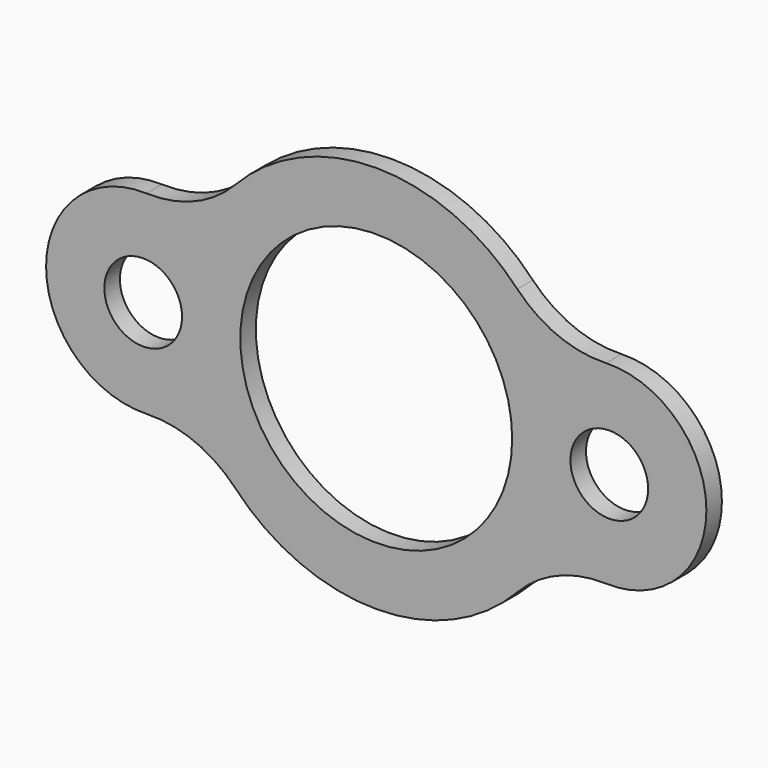
from build123d import *

# Parameters (mm, degrees)
F0_R     = 12.7
F0_R_2   = 44.45
F1_DEPTH = 6.35


with BuildPart() as f1:
    # F0 (on Front) → F1 (new body)
    with BuildSketch(Plane.XZ):
        with BuildLine():
            ThreePointArc((75.117614, 31.731545), (59.347524, 34.564632), (46.136719, 43.630874))
            ThreePointArc((46.136719, 43.630874), (0, 63.5), (-46.136719, 43.630874))
            ThreePointArc((-46.136719, 43.630874), (-59.347524, 34.564632), (-75.117614, 31.731545))
            ThreePointArc((-75.117614, 31.731545), (-107.95, 0), (-75.117614, -31.731545))
            ThreePointArc((-75.117614, -31.731545), (-59.347524, -34.564632), (-46.136719, -43.630874))
            ThreePointArc((-46.136719, -43.630874), (0, -63.5), (46.136719, -43.630874))
            ThreePointArc((46.136719, -43.630874), (59.347524, -34.564632), (75.117614, -31.731545))
            ThreePointArc((75.117614, -31.731545), (107.95, 0), (75.117614, 31.731545))
        make_face()
        with Locations((-76.2, 0)):
            Circle(F0_R, mode=Mode.SUBTRACT)
        Circle(F0_R_2, mode=Mode.SUBTRACT)
        with Locations((76.2, 0)):
            Circle(F0_R, mode=Mode.SUBTRACT)
    extrude(amount=-F1_DEPTH)


solid = f1.part
